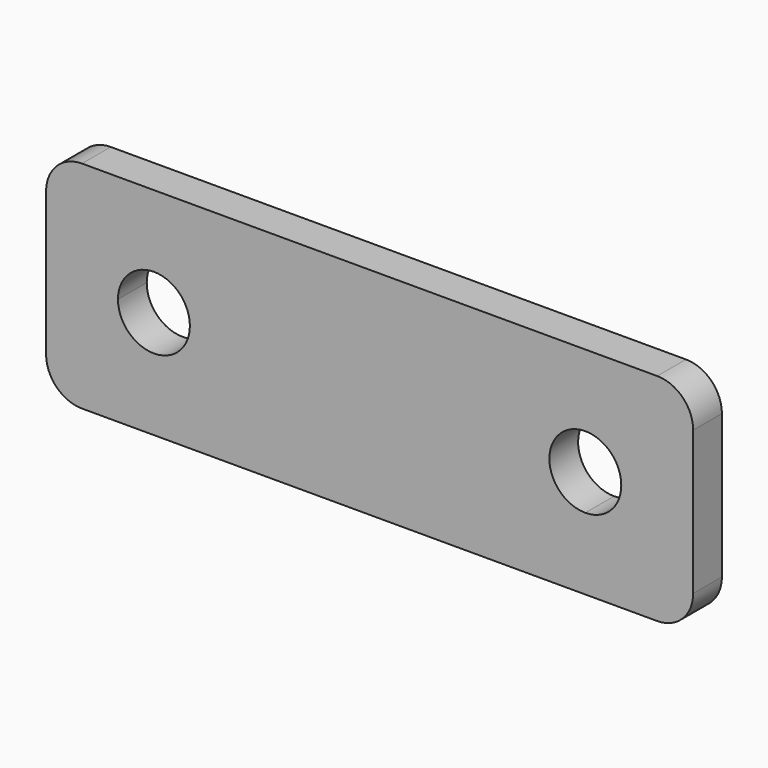
from build123d import *

# Parameters (mm, degrees)
F1_DEPTH = 3.175
F2_R     = 3.175


with BuildPart() as f1:
    # F0 (on Front) → F1 (new body)
    with BuildSketch(Plane.XZ):
        with BuildLine():
            Line((88.979729, -1.161793), (41.354729, -1.161793))
            Line((41.354729, -1.161793), (41.354729, -7.511793))
            ThreePointArc((41.354729, -7.511793), (43.599793, -8.441729), (44.529729, -10.686793))
            ThreePointArc((44.529729, -10.686793), (41.354729, -13.861793), (38.179729, -10.686793))
            Line((38.179729, -10.686793), (31.829729, -10.686793))
            Line((31.829729, -10.686793), (31.829729, -20.211793))
            Line((31.829729, -20.211793), (79.454729, -20.211793))
            Line((79.454729, -20.211793), (79.454729, -13.861793))
            ThreePointArc((79.454729, -13.861793), (77.209664, -8.441729), (82.629729, -10.686793))
            Line((82.629729, -10.686793), (88.979729, -10.686793))
            Line((88.979729, -10.686793), (88.979729, -1.161793))
        make_face()
        with BuildLine():
            Line((41.354729, -1.161793), (31.829729, -1.161793))
            Line((31.829729, -1.161793), (31.829729, -10.686793))
            Line((31.829729, -10.686793), (38.179729, -10.686793))
            ThreePointArc((38.179729, -10.686793), (39.109664, -8.441729), (41.354729, -7.511793))
            Line((41.354729, -7.511793), (41.354729, -1.161793))
        make_face()
        with BuildLine():
            Line((88.979729, -20.211793), (88.979729, -10.686793))
            Line((88.979729, -10.686793), (82.629729, -10.686793))
            ThreePointArc((82.629729, -10.686793), (81.699793, -12.931858), (79.454729, -13.861793))
            Line((79.454729, -13.861793), (79.454729, -20.211793))
            Line((79.454729, -20.211793), (88.979729, -20.211793))
        make_face()
    extrude(amount=F1_DEPTH)

    # F2
    f2_edges = [f1.edges().sort_by_distance(p)[0] for p in [
        (31.829729, -1.5875, -1.161793),
        (31.829729, -1.5875, -20.211793),
        (88.979729, -1.5875, -20.211793),
        (88.979729, -1.5875, -1.161793),
    ]]
    fillet(f2_edges, radius=F2_R)


solid = f1.part
